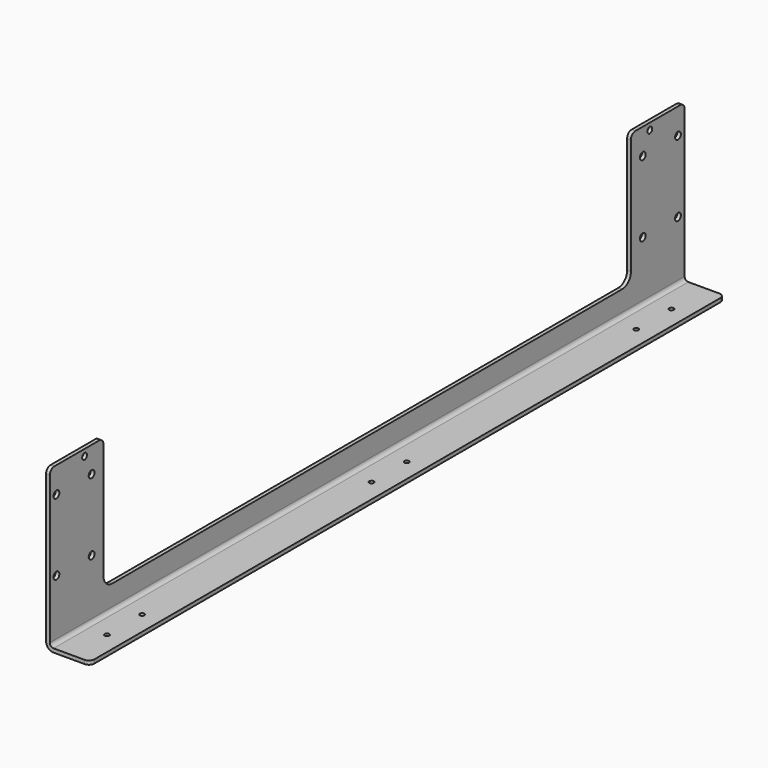
from build123d import *

# Parameters (mm, degrees)
F1_DEPTH = 360.865
F2_W     = 599.73
F2_H     = 120.6
F3_DEPTH = 40.001
F4_R     = 10
F5_R     = 5
F7_D     = 6.6
F8_R     = 4.5
F9_DEPTH = 5
F10_D    = 4.2
F12_D    = 5.5


with BuildPart() as f1:
    # F0 (on Front) → F1 (new body, symmetric)
    with BuildSketch(Plane.XZ):
        with BuildLine():
            Line((-16.58, 73), (-20, 73))
            Line((-20, 73), (-20, -66.16))
            ThreePointArc((-20, -66.16), (-17.9966103833, -70.9966103833), (-13.16, -73))
            Line((-13.16, -73), (20, -73))
            Line((20, -73), (20, -69.58))
            Line((20, -69.58), (-13.16, -69.58))
            ThreePointArc((-13.16, -69.58), (-15.5783051917, -68.5783051917), (-16.58, -66.16))
            Line((-16.58, -66.16), (-16.58, 73))
        make_face()
    extrude(amount=F1_DEPTH, both=True)

    # F2 (on face) → F3 (cut, through all)
    with BuildSketch(Plane(origin=(-20, 0, 0), x_dir=(0, -1, 0), z_dir=(-1, 0, 0))):
        with Locations((0, 12.7)):
            Rectangle(F2_W, F2_H)
    extrude(amount=-F3_DEPTH, mode=Mode.SUBTRACT)

    # F4
    f4_edges = [f1.edges().sort_by_distance(p)[0] for p in [
        (-18.29, 299.865, -47.6),
        (-18.29, -299.865, -47.6),
    ]]
    fillet(f4_edges, radius=F4_R)

    # F5
    f5_edges = [f1.edges().sort_by_distance(p)[0] for p in [
        (20, -360.865, -71.29),
        (20, 360.865, -71.29),
        (-18.29, -360.865, 73),
        (-18.29, -299.865, 73),
        (-18.29, 299.865, 73),
        (-18.29, 360.865, 73),
    ]]
    fillet(f5_edges, radius=F5_R)

    # F7 (through all)
    with Locations(Plane(origin=(-20, 0, 0), x_dir=(0, -1, 0), z_dir=(-1, 0, 0))):
        with Locations((-313.365, -15.5), (-353.365, -15.5), (-313.365, 49.5), (-353.365, 49.5), (313.365, 49.5), (353.365, 49.5), (353.365, -15.5), (313.365, -15.5)):
            Hole(F7_D / 2)

    # F8 (on face) → F9 (join)
    with BuildSketch(Plane.XY.offset(-69.58)):
        with Locations((3.42, 320.865)):
            Circle(F8_R)
        with Locations((3.42, 19.995)):
            Circle(F8_R)
        with Locations((3.42, -19.995)):
            Circle(F8_R)
        with Locations((3.42, -320.865)):
            Circle(F8_R)
        with Locations((3.42, -280.865)):
            Circle(F8_R)
        with Locations((3.42, 280.865)):
            Circle(F8_R)
    extrude(amount=-F9_DEPTH)

    # F10 (through all)
    with Locations(Plane.XY.offset(-69.58)):
        with Locations((3.42, -320.865), (3.42, -19.995), (3.42, 19.995), (3.42, 320.865), (3.42, 280.865), (3.42, -280.865)):
            Hole(F10_D / 2)

    # F12 (through all)
    with Locations(Plane(origin=(-20, 0, 0), x_dir=(0, -1, 0), z_dir=(-1, 0, 0))):
        with Locations((-321.365, 67), (321.365, 67)):
            Hole(F12_D / 2)


solid = f1.part
